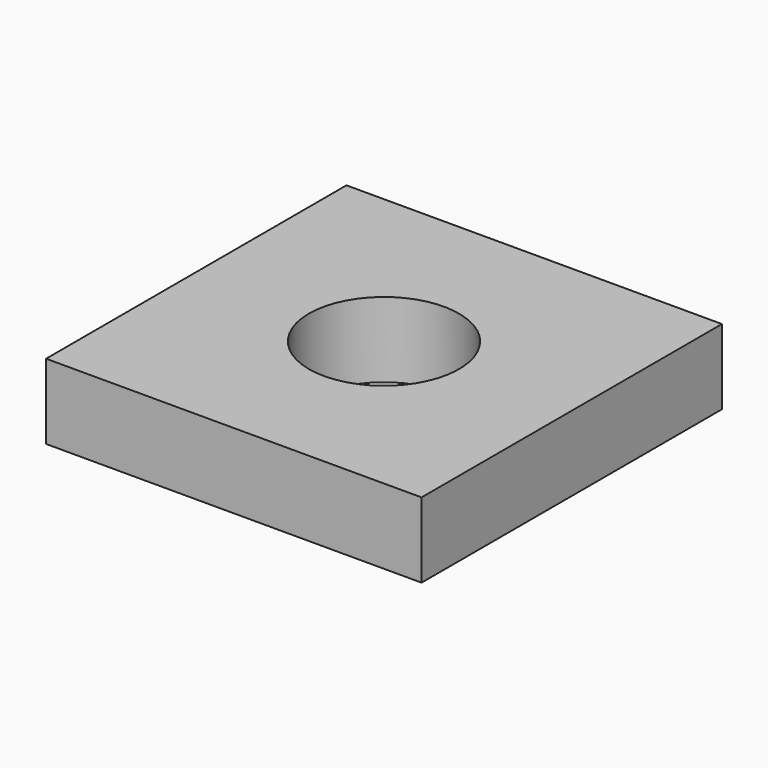
from build123d import *

# Parameters (mm, degrees)
F0_W     = 127
F0_H     = 25.4
F1_DEPTH = 127
F3_D     = 50.8


with BuildPart() as f1:
    # F0 (on Front) → F1 (new body)
    with BuildSketch(Plane.XZ):
        Rectangle(F0_W, F0_H)
    extrude(amount=F1_DEPTH)

    # F3 (through all)
    with Locations(Plane.XY.offset(12.7)):
        with Locations((0, -63.5)):
            Hole(F3_D / 2)


solid = f1.part
